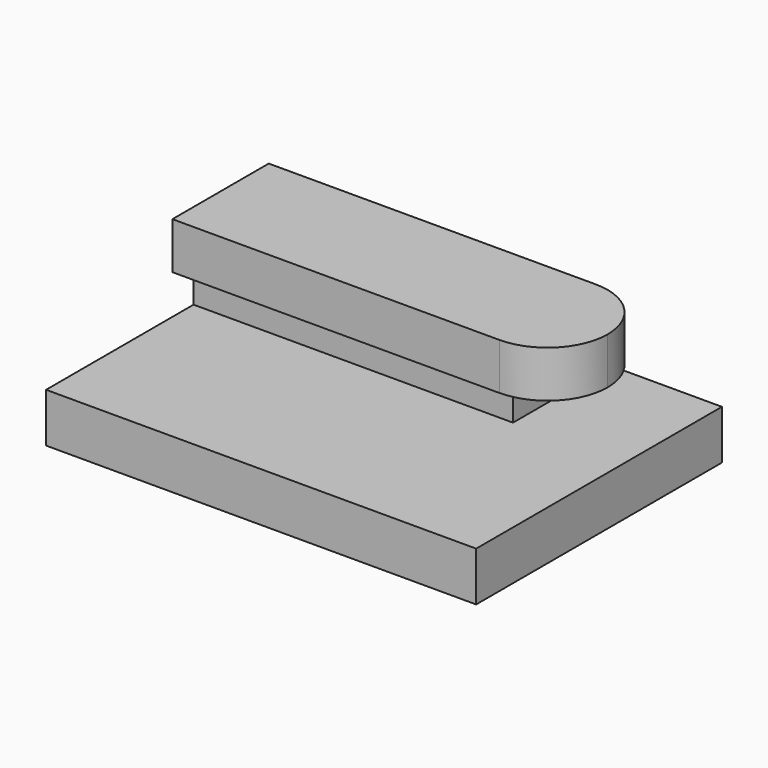
from build123d import *

# Parameters (mm, degrees)
F0_W     = 35
F0_H     = 25
F1_DEPTH = 4
F2_W     = 26
F2_H     = 5.5
F3_DEPTH = 3.2
F4_W     = 26
F4_H     = 5.5
F5_DEPTH = 3.8


with BuildPart() as f1:
    # F0 (on Top) → F1 (new body)
    with BuildSketch(Plane.XY):
        with Locations((-17.5, 2.854638)):
            Rectangle(F0_W, F0_H)
    extrude(amount=F1_DEPTH)

    # F2 (on face) → F3 (join)
    with BuildSketch(Plane.XY.offset(4)):
        with Locations((-22, 8.104638)):
            Rectangle(F2_W, F2_H)
    extrude(amount=F3_DEPTH)

    # F4 (on face) → F5 (join)
    with BuildSketch(Plane.XY.offset(7.2)):
        with BuildLine():
            Line((-35, 5.354638), (-35, 3.204638))
            Line((-35, 3.204638), (-8.4, 3.204638))
            ThreePointArc((-8.4, 3.204638), (-4.935177, 4.639814), (-3.5, 8.104638))
            ThreePointArc((-3.5, 8.104638), (-4.935177, 11.569461), (-8.4, 13.004638))
            Line((-8.4, 13.004638), (-35, 13.004638))
            Line((-35, 13.004638), (-35, 10.854638))
            Line((-35, 10.854638), (-9, 10.854638))
            Line((-9, 10.854638), (-9, 5.354638))
            Line((-9, 5.354638), (-35, 5.354638))
        make_face()
        with Locations((-22, 8.104638)):
            Rectangle(F4_W, F4_H)
    extrude(amount=F5_DEPTH)


solid = f1.part
